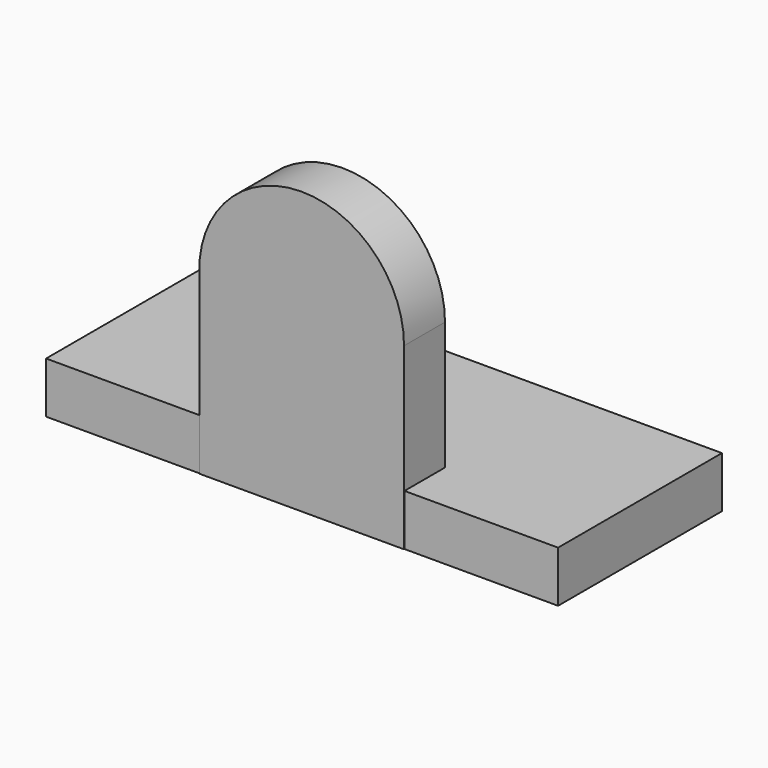
from build123d import *

# Parameters (mm, degrees)
F0_W     = 100
F0_H     = 40
F1_DEPTH = 10
F3_DEPTH = 10


with BuildPart() as f1:
    # F0 (on Top) → F1 (new body)
    with BuildSketch(Plane.XY):
        with Locations((-7.449285, 20.108394)):
            Rectangle(F0_W, F0_H)
    extrude(amount=F1_DEPTH)


with BuildPart() as f3:
    # F2 (on Front) → F3 (new body)
    with BuildSketch(Plane.XZ):
        with BuildLine():
            Line((-27.445644, 34.618378), (-27.445644, 0))
            Line((-27.445644, 0), (12.550715, 0))
            Line((12.550715, 0), (12.550715, 35))
            ThreePointArc((12.550715, 35), (-7.640105, 54.99909), (-27.445644, 34.618378))
        make_face()
    extrude(amount=-F3_DEPTH)


solid = Compound([f1.part, f3.part])
